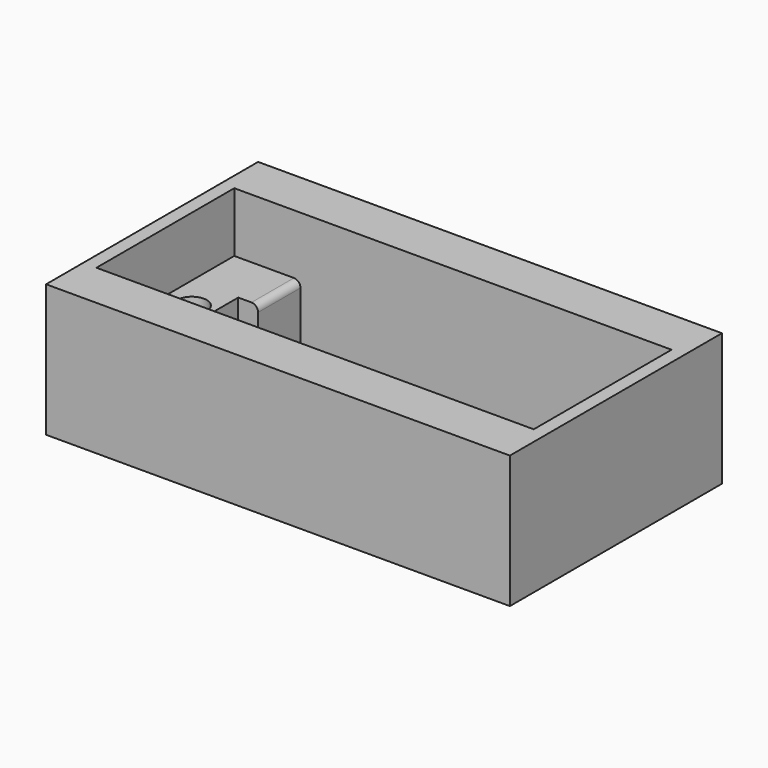
from build123d import *

# Parameters (mm, degrees)
F0_W     = 35
F0_H     = 20
F1_DEPTH = 10
F2_W     = 23
F2_H     = 13
F3_DEPTH = 10
F4_W     = 33
F4_H     = 13
F5_DEPTH = 4.5
F6_R     = 1.125
F6_W     = 1.5
F6_H     = 5
F7_DEPTH = 5.5
F8_R     = 1.125
F9_DEPTH = 1
F10_R    = 0.5


with BuildPart() as f1:
    # F0 (on Top) → F1 (new body)
    with BuildSketch(Plane.XY):
        Rectangle(F0_W, F0_H)
    extrude(amount=-F1_DEPTH)

    # F2 (on Top) → F3 (cut, through all)
    with BuildSketch(Plane.XY):
        Rectangle(F2_W, F2_H)
    extrude(amount=-F3_DEPTH, mode=Mode.SUBTRACT)

    # F4 (on Top) → F5 (cut)
    with BuildSketch(Plane.XY):
        Rectangle(F4_W, F4_H)
    extrude(amount=-F5_DEPTH, mode=Mode.SUBTRACT)

    # F6 (on face) → F7 (cut, through all)
    with BuildSketch(Plane.XY.offset(-4.5)):
        with Locations((-14.5, 0)):
            Circle(F6_R)
        with Locations((14.5, 0)):
            Circle(F6_R)
        with Locations((-12.25, 0)):
            Rectangle(F6_W, F6_H)
        with Locations((12.25, 0)):
            Rectangle(F6_W, F6_H)
    extrude(amount=-F7_DEPTH, mode=Mode.SUBTRACT)

    # F8 (on face) → F9 (cut)
    with BuildSketch(Plane(origin=(0, 0, -10), x_dir=(1, 0, 0), z_dir=(0, 0, -1))):
        Polygon((-15.943375673, -2.5), (-13.056624327, -2.5), (-13, -2.4019237886), (-13, 2.4019237886), (-13.056624327, 2.5), (-15.943375673, 2.5), (-17.3867513459, 0), align=None)
        with Locations((-14.5, 0)):
            Circle(F8_R, mode=Mode.SUBTRACT)
        Polygon((13, 2.4019237886), (13, -2.4019237886), (13.056624327, -2.5), (15.943375673, -2.5), (17.3867513459, 0), (15.943375673, 2.5), (13.056624327, 2.5), align=None)
        with Locations((14.5, 0)):
            Circle(F8_R, mode=Mode.SUBTRACT)
    extrude(amount=-F9_DEPTH, mode=Mode.SUBTRACT)

    # F10
    f10_edges = [f1.edges().sort_by_distance(p)[0] for p in [
        (-11.5, 4.5, -10),
        (-11.5, -4.5, -10),
        (0, -6.5, -10),
        (0, 6.5, -10),
        (11.5, 4.5, -10),
        (11.5, -4.5, -10),
        (11.5, -4.5, -4.5),
        (11.5, 4.5, -4.5),
        (-11.5, -4.5, -4.5),
        (-11.5, 4.5, -4.5),
    ]]
    fillet(f10_edges, radius=F10_R)


solid = f1.part
